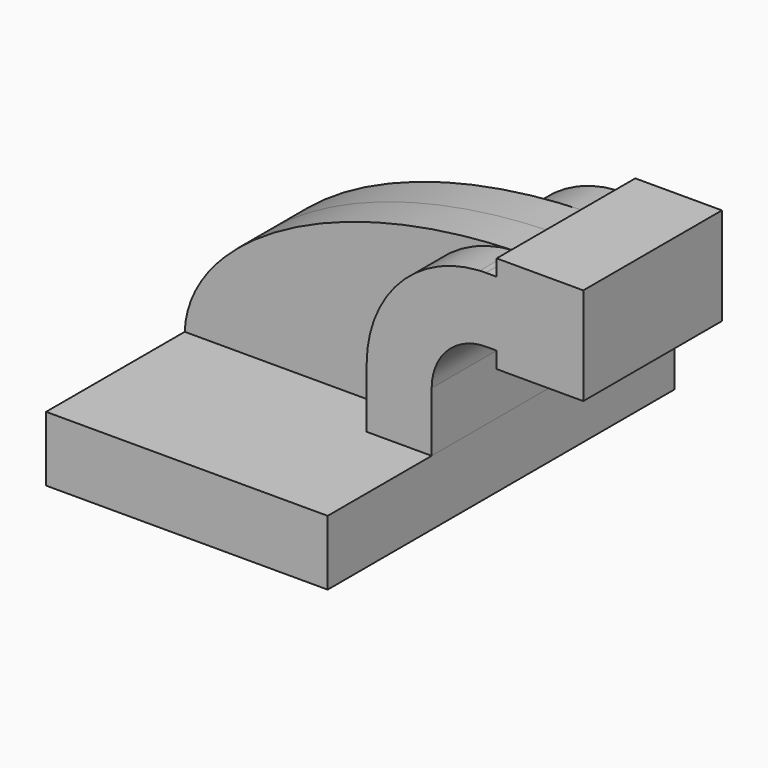
from build123d import *

# Parameters (mm, degrees)
F1_DEPTH = 63.5
F0_W     = 25.4
F0_H     = 4.7498
F0_H_2   = 4.7752
F0_H_3   = 19.05
F2_DEPTH = 25.4
F3_DEPTH = 12.7


with BuildPart() as f1:
    # F0 (on Front) → F1 (new body, symmetric)
    with BuildSketch(Plane.XZ):
        Polygon((22.225, 9.525), (-41.275, 9.525), (-41.275, -9.525), (41.275, -9.525), (41.275, 9.525), align=None)
    extrude(amount=F1_DEPTH, both=True)


with BuildPart() as f2:
    # F0 (on Front) → F2 (new body, symmetric)
    with BuildSketch(Plane.XZ):
        with BuildLine():
            Line((22.225, 27.0002), (22.225, 9.525))
            Line((22.225, 9.525), (41.275, 9.525))
            Line((41.275, 9.525), (41.275, 27.0002))
            ThreePointArc((41.275, 27.0002), (45.9246798487, 38.2255201513), (57.15, 42.8752))
            Line((57.15, 42.8752), (60.325, 42.8752))
            Line((60.325, 42.8752), (60.325, 61.9252))
            Line((60.325, 61.9252), (57.15, 61.9252))
            add(Edge.make_bspline(
                [(55.3802701372, 61.8803330447), (55.9683647582, 61.8979225065), (56.5582831082, 61.9128875558), (57.15, 61.9252)],
                knots=[110.3500459175, 110.3500459175, 110.3500459175, 110.3500459175, 111.5045361635, 111.5045361635, 111.5045361635, 111.5045361635], degree=3))
            ThreePointArc((55.3802701372, 61.8803330447), (31.836333331, 51.0620765846), (22.225, 27.0002))
        make_face()
        with Locations((73.025, 64.3001)):
            Rectangle(F0_W, F0_H)
        with Locations((73.025, 40.4876)):
            Rectangle(F0_W, F0_H_2)
        with Locations((73.025, 52.4002)):
            Rectangle(F0_W, F0_H_3)
    extrude(amount=F2_DEPTH, both=True)


with BuildPart() as f3:
    # F0 (on Front) → F3 (new body, symmetric)
    with BuildSketch(Plane.XZ):
        with BuildLine():
            add(Edge.make_bspline(
                [(-41.275, 9.525), (-40.3819274059, 34.5407168453), (-0.8317841869, 60.1990733472), (55.3802701372, 61.8803330447)],
                knots=[0, 0, 0, 0, 110.3500459175, 110.3500459175, 110.3500459175, 110.3500459175], degree=3))
            Line((-41.275, 9.525), (22.225, 9.525))
            Line((22.225, 9.525), (22.225, 27.0002))
            ThreePointArc((22.225, 27.0002), (31.836333331, 51.0620765846), (55.3802701372, 61.8803330447))
        make_face()
    extrude(amount=F3_DEPTH, both=True)


solid = Compound([f1.part, f2.part, f3.part])
